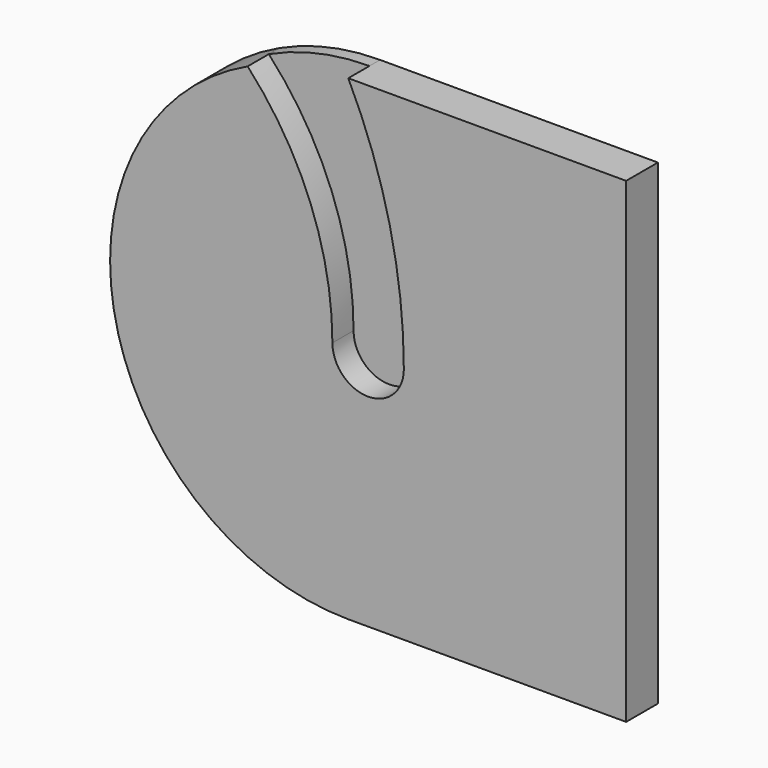
from build123d import *

# Parameters (mm, degrees)
F3_DEPTH = 25
F4_DEPTH = 16.6666666667
F5_W     = 25
F5_H     = 300
F6_DEPTH = 400


with BuildPart() as f3:
    # F2 (on Front) → F3 (new body)
    with BuildSketch(Plane.XZ):
        with BuildLine():
            Line((162.5, 150), (-12.5, 150))
            ThreePointArc((-12.5, 150), (13.6340385875, 77.0146090037), (22.5, 0))
            ThreePointArc((22.5, 0), (0, -22.5), (-22.5, 0))
            ThreePointArc((-22.5, 0), (-36.3223137223, 73.0281778836), (-75.877047, 135.9534843745))
            ThreePointArc((-75.877047, 135.9534843745), (-139.0040652509, 80.6022423696), (-162.5, 0))
            ThreePointArc((-162.5, 0), (-118.566017178, -106.066017178), (-12.5, -150))
            Line((-12.5, -150), (162.5, -150))
            Line((162.5, -150), (162.5, 150))
        make_face()
        with BuildLine():
            ThreePointArc((22.5, 0), (13.6340385875, 77.0146090037), (-12.5, 150))
            ThreePointArc((-12.5, 150), (-44.9574902282, 146.4462745449), (-75.877047, 135.9534843745))
            ThreePointArc((-75.877047, 135.9534843745), (-36.3223137223, 73.0281778836), (-22.5, 0))
            ThreePointArc((-22.5, 0), (0, -22.5), (22.5, 0))
        make_face()
    extrude(amount=-F3_DEPTH)

    # F2 (on Front) → F4 (cut)
    with BuildSketch(Plane.XZ):
        with BuildLine():
            ThreePointArc((22.5, 0), (13.6340385875, 77.0146090037), (-12.5, 150))
            ThreePointArc((-12.5, 150), (-44.9574902282, 146.4462745449), (-75.877047, 135.9534843745))
            ThreePointArc((-75.877047, 135.9534843745), (-36.3223137223, 73.0281778836), (-22.5, 0))
            ThreePointArc((-22.5, 0), (0, -22.5), (22.5, 0))
        make_face()
    extrude(amount=-F4_DEPTH, mode=Mode.SUBTRACT)


with BuildPart() as f6:
    # F5 (on face) → F6 (new body)
    with BuildSketch(Plane(origin=(0, 25, 0), x_dir=(-1, 0, 0), z_dir=(0, 1, 0))):
        with Locations((-150, 0)):
            Rectangle(F5_W, F5_H)
    extrude(amount=-F6_DEPTH)


with BuildPart() as f9_1:
    # F9: instance of F3
    add(f3.part.mirror(Plane(origin=(150, -175, 0), x_dir=(-1, 0, 0), z_dir=(0, -1, 0))))


with BuildPart() as f10_1:
    # F10: copy of F3
    add(f3.part)


solid = f3.part
